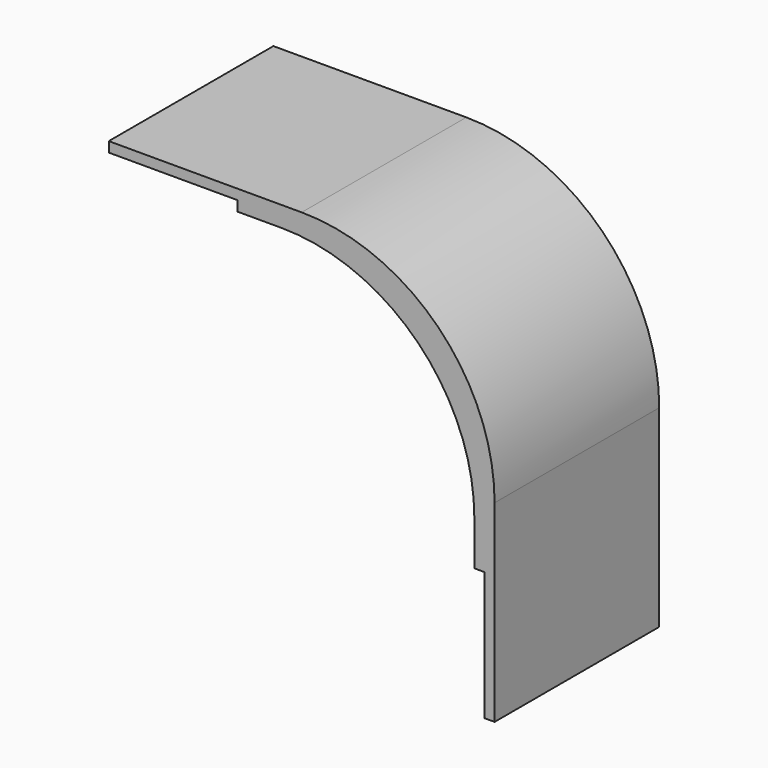
from build123d import *

# Parameters (mm, degrees)
F1_DEPTH = 20.32


with BuildPart() as f1:
    # F0 (on Front) → F1 (new body)
    with BuildSketch(Plane.XZ):
        with BuildLine():
            Line((2.483238, 13.186188), (-3.866762, 13.186188))
            Line((-3.866762, 13.186188), (-16.566762, 13.186188))
            Line((-16.566762, 13.186188), (-16.566762, 12.186188))
            Line((-16.566762, 12.186188), (-3.866762, 12.186188))
            Line((-3.866762, 12.186188), (-3.866762, 11.186188))
            Line((-3.866762, 11.186188), (0.483238, 11.186188))
            ThreePointArc((0.483238, 11.186188), (13.953622, 5.606572), (19.533238, -7.863812))
            Line((19.533238, -7.863812), (19.533238, -12.213812))
            Line((19.533238, -12.213812), (20.533238, -12.213812))
            Line((20.533238, -12.213812), (20.533238, -24.913812))
            Line((20.533238, -24.913812), (21.533238, -24.913812))
            Line((21.533238, -24.913812), (21.533238, -12.213812))
            Line((21.533238, -12.213812), (21.533238, -5.863812))
            ThreePointArc((21.533238, -5.863812), (15.953622, 7.606572), (2.483238, 13.186188))
        make_face()
    extrude(amount=F1_DEPTH)


solid = f1.part
